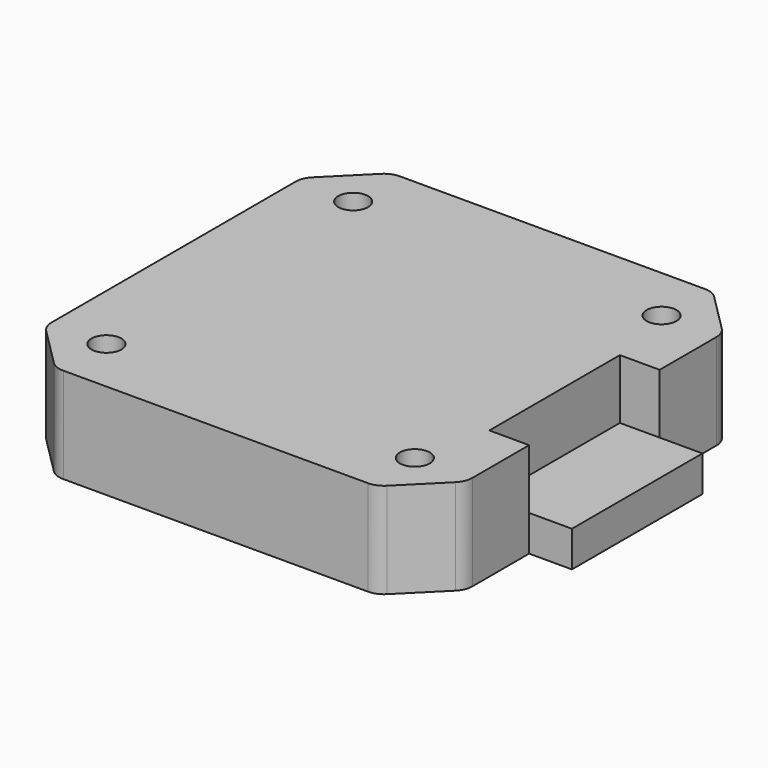
from build123d import *

# Parameters (mm, degrees)
SKETCH003_W      = 42.3
SKETCH003_H      = 42.3
PAD002_DEPTH     = 9.6
SKETCH004_W      = 4.3
SKETCH004_H      = 16.4
PAD003_DEPTH     = 3.6
CHAMFER_SIZE     = 5
FILLET_R         = 2
HOLE_D           = 3
HOLE_DEPTH       = 25
HOLE_CBORE_D     = 5
HOLE_CBORE_DEPTH = 5
SKETCH016_W      = 16.4
SKETCH016_H      = 6
POCKET007_DEPTH  = 4


with BuildPart() as part:
    # Sketch003 → Pad002 (new body)
    with BuildSketch(Plane.XY):
        Rectangle(SKETCH003_W, SKETCH003_H)
    extrude(amount=PAD002_DEPTH)

    # Sketch004 → Pad003 (join)
    with BuildSketch(Plane.XY):
        with Locations((23.3, 0)):
            Rectangle(SKETCH004_W, SKETCH004_H)
    extrude(amount=PAD003_DEPTH)

    # Chamfer
    chamfer_edges = [part.edges().sort_by_distance(p)[0] for p in [
        (21.15, -21.15, 4.8),
        (-21.15, -21.15, 4.8),
        (-21.15, 21.15, 4.8),
        (21.15, 21.15, 4.8),
    ]]
    chamfer(chamfer_edges, length=CHAMFER_SIZE)

    # Fillet
    fillet_edges = [part.edges().sort_by_distance(p)[0] for p in [
        (16.15, -21.15, 4.8),
        (21.15, -16.15, 4.8),
        (21.15, 16.15, 4.8),
        (16.15, 21.15, 4.8),
        (-16.15, 21.15, 4.8),
        (-21.15, 16.15, 4.8),
        (-16.15, -21.15, 4.8),
        (-21.15, -16.15, 4.8),
    ]]
    fillet(fillet_edges, radius=FILLET_R)

    # Hole
    with Locations(Plane(origin=(0, 0, 0), x_dir=(1, 0, 0), z_dir=(0, 0, -1))):
        with Locations((-15.5, 15.5), (15.5, 15.5), (15.5, -15.5), (-15.5, -15.5)):
            CounterBoreHole(HOLE_D / 2, HOLE_CBORE_D / 2, HOLE_CBORE_DEPTH, depth=HOLE_DEPTH)

    # Sketch016 (on Face11 of Hole) → Pocket007 (cut)
    with BuildSketch(Plane.YZ.offset(21.15)):
        with Locations((0, 6.6)):
            Rectangle(SKETCH016_W, SKETCH016_H)
    extrude(amount=-POCKET007_DEPTH, mode=Mode.SUBTRACT)


solid = part.part
